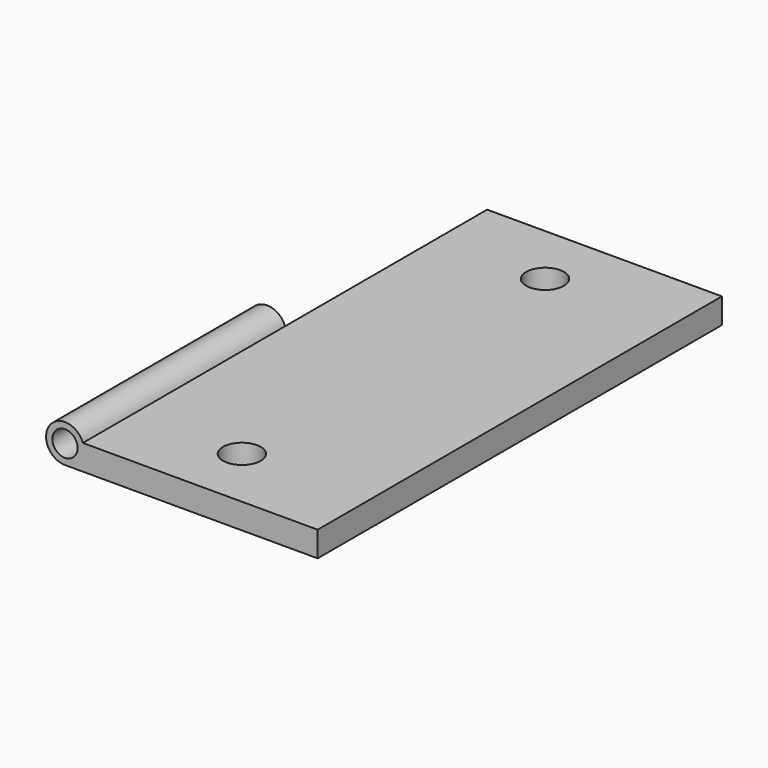
from build123d import *

# Parameters (mm, degrees)
F0_W     = 25.4
F0_H     = 50.8
F1_DEPTH = 2.54
F3_D     = 3.7973
F4_R     = 1.905
F5_DEPTH = 25.4
F6_R     = 1.27
F7_DEPTH = 25.4
F8_START = -25.4
F8_DEPTH = 25.4


with BuildPart() as f1:
    # F0 (on Top) → F1 (new body)
    with BuildSketch(Plane.XY):
        with Locations((12.7, 25.4)):
            Rectangle(F0_W, F0_H)
    extrude(amount=F1_DEPTH)

    # F3 (through all)
    with Locations(Plane.XY.offset(2.54)):
        with Locations((12.7, 44.45), (12.7, 6.35)):
            Hole(F3_D / 2)

    # F4 (on face) → F5 (join)
    with BuildSketch(Plane.XZ):
        with Locations((0, 1.905)):
            Circle(F4_R)
    extrude(amount=-F5_DEPTH)

    # F6 (on face) → F7 (cut, through all)
    with BuildSketch(Plane.XZ):
        with Locations((0, 1.905)):
            Circle(F6_R)
    extrude(amount=-F7_DEPTH, mode=Mode.SUBTRACT)

    # F4 (on face) → F8 (cut)
    with BuildSketch(Plane.XZ.offset(F8_START)):
        with Locations((0, 1.905)):
            Circle(F4_R)
    extrude(amount=-F8_DEPTH, mode=Mode.SUBTRACT)


solid = f1.part
